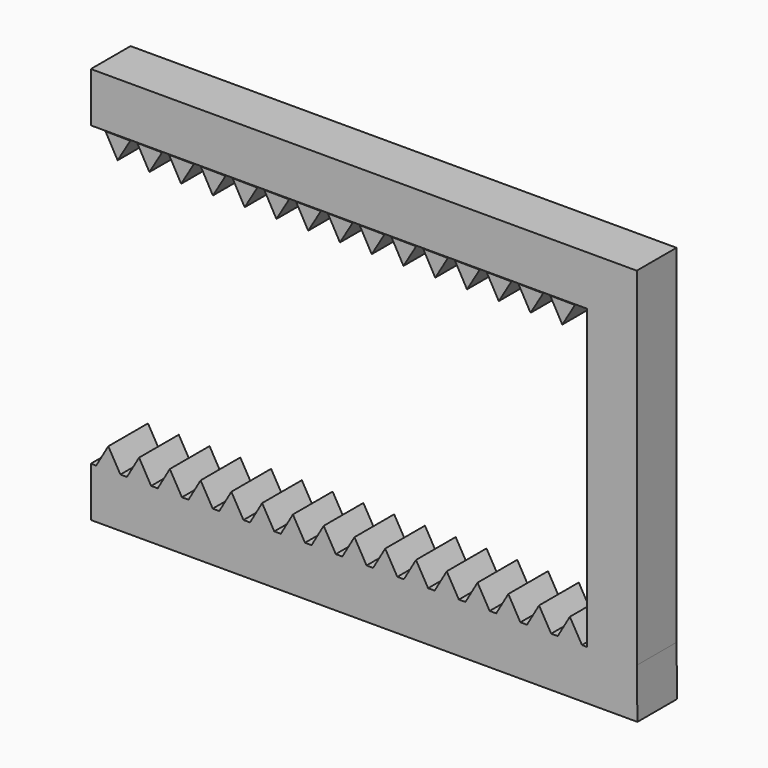
from build123d import *

# Parameters (mm, degrees)
F0_W     = 127
F0_H     = 12.7
F1_DEPTH = 12.7
F3_DEPTH = 12.7
F5_DEPTH = 12.7


with BuildPart() as f1:
    # F0 (on Front) → F1 (new body)
    with BuildSketch(Plane.XZ):
        Polygon((65.263382, 49.395234), (65.263382, 36.695234), (65.263382, -39.504766), (77.963382, -39.505983), (77.963382, 49.395234), align=None)
        with Locations((1.763382, 43.045234)):
            Rectangle(F0_W, F0_H)
        Polygon((77.963382, -39.505983), (65.263382, -39.504766), (-61.736618, -39.504766), (-61.736618, -52.204766), (78.139244, -52.204766), align=None)
    extrude(amount=F1_DEPTH)

    # F4 (on Front) → F5 (join)
    with BuildSketch(Plane.XZ):
        Polygon((-54.096439, -39.640051), (-57.271437, -34.140791), (-60.446439, -39.640051), align=None)
        Polygon((-46.222439, -39.640051), (-49.397437, -34.140791), (-52.572439, -39.640051), align=None)
        Polygon((-38.348439, -39.640051), (-41.523437, -34.140791), (-44.698439, -39.640051), align=None)
        Polygon((-30.474439, -39.640051), (-33.649437, -34.140791), (-36.824439, -39.640051), align=None)
        Polygon((-22.600439, -39.640051), (-25.775437, -34.140791), (-28.950439, -39.640051), align=None)
        Polygon((-14.726439, -39.640051), (-17.901437, -34.140791), (-21.076439, -39.640051), align=None)
        Polygon((-6.852439, -39.640051), (-10.027437, -34.140791), (-13.202439, -39.640051), align=None)
        Polygon((1.021561, -39.640051), (-2.153437, -34.140791), (-5.328439, -39.640051), align=None)
        Polygon((8.895561, -39.640051), (5.720563, -34.140791), (2.545561, -39.640051), align=None)
        Polygon((16.769561, -39.640051), (13.594563, -34.140791), (10.419561, -39.640051), align=None)
        Polygon((24.643561, -39.640051), (21.468563, -34.140791), (18.293561, -39.640051), align=None)
        Polygon((40.391561, -39.640051), (37.216563, -34.140791), (34.041561, -39.640051), align=None)
        Polygon((48.265561, -39.640051), (45.090563, -34.140791), (41.915561, -39.640051), align=None)
        Polygon((56.139561, -39.640051), (52.964563, -34.140791), (49.789561, -39.640051), align=None)
        Polygon((57.663561, -39.640051), (64.013561, -39.640051), (60.838563, -34.140791), align=None)
        Polygon((32.517561, -39.640051), (29.342563, -34.140791), (26.167561, -39.640051), align=None)
    extrude(amount=F5_DEPTH)


with BuildPart() as f3:
    # F2 (on Front) → F3 (new body)
    with BuildSketch(Plane.XZ):
        Polygon((-57.995697, 36.583982), (-54.883398, 31.048994), (-51.646107, 36.511818), align=None)
        Polygon((-49.867697, 36.583982), (-46.755398, 31.048994), (-43.518107, 36.511818), align=None)
        Polygon((-41.739697, 36.583982), (-38.627398, 31.048994), (-35.390107, 36.511818), align=None)
        Polygon((-33.611697, 36.583982), (-30.499398, 31.048994), (-27.262107, 36.511818), align=None)
        Polygon((-25.483697, 36.583982), (-22.371398, 31.048994), (-19.134107, 36.511818), align=None)
        Polygon((-17.355697, 36.583982), (-14.243398, 31.048994), (-11.006107, 36.511818), align=None)
        Polygon((-9.227697, 36.583982), (-6.115398, 31.048994), (-2.878107, 36.511818), align=None)
        Polygon((-1.099697, 36.583982), (2.012602, 31.048994), (5.249893, 36.511818), align=None)
        Polygon((7.028303, 36.583982), (10.140602, 31.048994), (13.377893, 36.511818), align=None)
        Polygon((15.156303, 36.583982), (18.268602, 31.048994), (21.505893, 36.511818), align=None)
        Polygon((23.284303, 36.583982), (26.396602, 31.048994), (29.633893, 36.511818), align=None)
        Polygon((31.412303, 36.583982), (34.524602, 31.048994), (37.761893, 36.511818), align=None)
        Polygon((39.540303, 36.583982), (42.652602, 31.048994), (45.889893, 36.511818), align=None)
        Polygon((47.668303, 36.583982), (50.780602, 31.048994), (54.017893, 36.511818), align=None)
        Polygon((58.908602, 31.048994), (62.145893, 36.511818), (55.796303, 36.583982), align=None)
    extrude(amount=F3_DEPTH)


solid = Compound([f1.part, f3.part])
